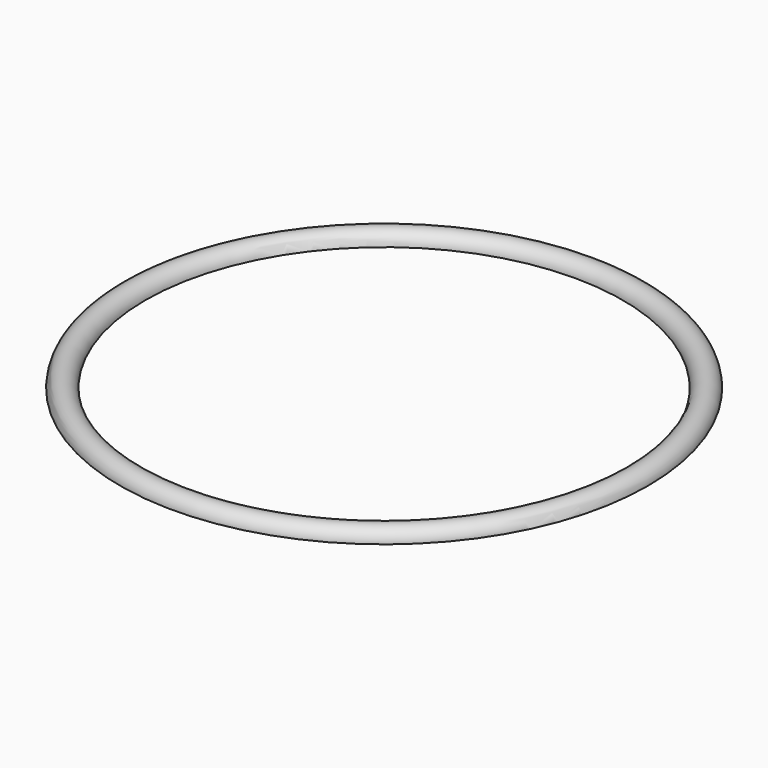
from build123d import *


with BuildPart() as f2:
    # F2: sweep along a path in F1
    with BuildLine(Plane.XY) as f2_path:
        CenterArc((412.5, 0), 412.5, 0, 360)
    # F0 (on Front) → F2 (sweep)
    with BuildSketch(Plane.XZ):
        with BuildLine():
            ThreePointArc((-19.05, 0), (0, 19.05), (19.05, 0))
            Line((19.05, 0), (20.7, 0))
            ThreePointArc((20.7, 0), (0, 20.7), (-20.7, 0))
            Line((-20.7, 0), (-19.05, 0))
        make_face()
    sweep(path=f2_path.line)


solid = f2.part
